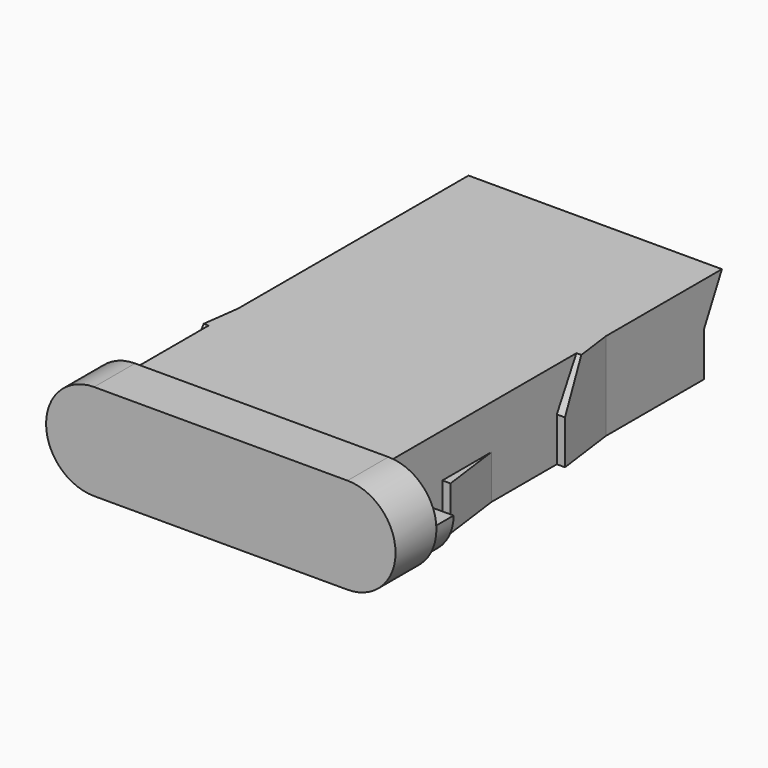
from build123d import *

# Parameters (mm, degrees)
F1_DEPTH  = 2.15
F2_W      = 12.4
F2_H      = 19.3
F3_DEPTH  = 2.15
F4_DEPTH  = 2.15
F6_DEPTH  = 25
F7_DEPTH  = 2.15
F9_DEPTH  = 25
F11_DEPTH = 12.4
F13_DEPTH = 2.5
F14_DEPTH = 1.3
F16_DEPTH = 2.5


with BuildPart() as f1:
    # F0 (on Top) → F1 (new body)
    with BuildSketch(Plane.XY):
        Polygon((12.4, 0), (0, 0), (0, -6), (0, -9), (6.2, -9), (12.4, -9), (12.4, -6), align=None)
        Polygon((0, -9), (0, -6), (-0.4, -9), align=None)
        Polygon((12.8, -9), (12.4, -6), (12.4, -9), align=None)
        Polygon((6.2, -9), (0, -9), (0, -13), (0, -16), (6.2, -16), (12.4, -16), (12.4, -13), (12.4, -9), align=None)
        Polygon((0, -16), (0, -13), (-0.4, -16), align=None)
        Polygon((12.8, -16), (12.4, -13), (12.4, -16), align=None)
        Polygon((6.2, -16), (0, -16), (0, -18), (12.4, -18), (12.4, -16), align=None)
    extrude(amount=F1_DEPTH)

    # F2 (on face) → F3 (join)
    with BuildSketch(Plane.XY.offset(2.15)):
        with Locations((6.2, -9.65)):
            Rectangle(F2_W, F2_H)
    extrude(amount=F3_DEPTH)

    # F4 (add): a face of the model
    f4_faces = [f1.faces().sort_by_distance(p)[0] for p in [
        (12.5333333333, -8, 2.15),
    ]]
    extrude(f4_faces, amount=F4_DEPTH)

    # F5 (on face) → F6 (cut)
    with BuildSketch(Plane.YZ.offset(12.4)):
        Polygon((-9, 4.3), (-9, 2.15), (-7.8, 4.3), align=None)
    extrude(amount=F6_DEPTH, mode=Mode.SUBTRACT)

    # F7 (add): a face of the model
    f7_faces = [f1.faces().sort_by_distance(p)[0] for p in [
        (-0.1333333333, -15, 2.15),
    ]]
    extrude(f7_faces, amount=F7_DEPTH)

    # F8 (on face) → F9 (cut)
    with BuildSketch(Plane(origin=(0, 0, 0), x_dir=(0, -1, 0), z_dir=(-1, 0, 0))):
        Polygon((14.8, 4.3), (16, 2.15), (16, 4.3), align=None)
    extrude(amount=F9_DEPTH, mode=Mode.SUBTRACT)

    # F10 (on face) → F11 (join, through all)
    with BuildSketch(Plane.YZ.offset(12.4)):
        Polygon((1.1, 4.3), (0, 4.3), (0, 2.15), align=None)
    extrude(amount=-F11_DEPTH)

    # F12 (on face) → F13 (join)
    with BuildSketch(Plane.XZ.offset(19.3)):
        with BuildLine():
            Line((0, 2.15), (2.15, 2.15))
            ThreePointArc((2.15, 2.15), (0, 4.3), (-2.15, 2.15))
            Line((-2.15, 2.15), (0, 2.15))
        make_face()
        with BuildLine():
            Line((10.25, 2.15), (2.15, 2.15))
            ThreePointArc((2.15, 2.15), (1.5202795796, 0.6297204204), (0, 0))
            Line((0, 0), (12.4, 0))
            ThreePointArc((12.4, 0), (10.8797204204, 0.6297204204), (10.25, 2.15))
        make_face()
        with BuildLine():
            ThreePointArc((0, 0), (1.5202795796, 0.6297204204), (2.15, 2.15))
            Line((2.15, 2.15), (0, 2.15))
            Line((0, 2.15), (-2.15, 2.15))
            ThreePointArc((-2.15, 2.15), (-1.5202795796, 0.6297204204), (0, 0))
        make_face()
        with BuildLine():
            Line((12.4, 2.15), (10.25, 2.15))
            ThreePointArc((10.25, 2.15), (10.8797204204, 0.6297204204), (12.4, 0))
            ThreePointArc((12.4, 0), (13.9202795796, 0.6297204204), (14.55, 2.15))
            Line((14.55, 2.15), (12.4, 2.15))
        make_face()
        with BuildLine():
            ThreePointArc((14.55, 2.15), (12.4, 4.3), (10.25, 2.15))
            Line((10.25, 2.15), (12.4, 2.15))
            Line((12.4, 2.15), (14.55, 2.15))
        make_face()
        with BuildLine():
            ThreePointArc((0, 4.3), (1.5202795796, 3.6702795796), (2.15, 2.15))
            Line((2.15, 2.15), (10.25, 2.15))
            ThreePointArc((10.25, 2.15), (10.8797204204, 3.6702795796), (12.4, 4.3))
            Line((12.4, 4.3), (0, 4.3))
        make_face()
        with BuildLine():
            Line((10.25, 2.15), (2.15, 2.15))
            ThreePointArc((2.15, 2.15), (1.5202795796, 0.6297204204), (0, 0))
            Line((0, 0), (12.4, 0))
            ThreePointArc((12.4, 0), (10.8797204204, 0.6297204204), (10.25, 2.15))
        make_face()
    extrude(amount=F13_DEPTH)

    # F12 (on face) → F14 (join)
    with BuildSketch(Plane.XZ.offset(19.3)):
        with BuildLine():
            ThreePointArc((0, 0), (1.5202795796, 0.6297204204), (2.15, 2.15))
            Line((2.15, 2.15), (0, 2.15))
            Line((0, 2.15), (-2.15, 2.15))
            ThreePointArc((-2.15, 2.15), (-1.5202795796, 0.6297204204), (0, 0))
        make_face()
        with BuildLine():
            Line((10.25, 2.15), (2.15, 2.15))
            ThreePointArc((2.15, 2.15), (1.5202795796, 0.6297204204), (0, 0))
            Line((0, 0), (12.4, 0))
            ThreePointArc((12.4, 0), (10.8797204204, 0.6297204204), (10.25, 2.15))
        make_face()
        with BuildLine():
            Line((12.4, 2.15), (10.25, 2.15))
            ThreePointArc((10.25, 2.15), (10.8797204204, 0.6297204204), (12.4, 0))
            ThreePointArc((12.4, 0), (13.9202795796, 0.6297204204), (14.55, 2.15))
            Line((14.55, 2.15), (12.4, 2.15))
        make_face()
    extrude(amount=-F14_DEPTH)

    # F15 (on face) → F16 (join)
    with BuildSketch(Plane.XZ.offset(21.8)):
        with BuildLine():
            ThreePointArc((12.4, -0.2), (14.75, 2.15), (12.4, 4.5))
            Line((12.4, 4.5), (0, 4.5))
            ThreePointArc((0, 4.5), (-2.35, 2.15), (0, -0.2))
            Line((0, -0.2), (12.4, -0.2))
        make_face()
    extrude(amount=-F16_DEPTH)


solid = f1.part
